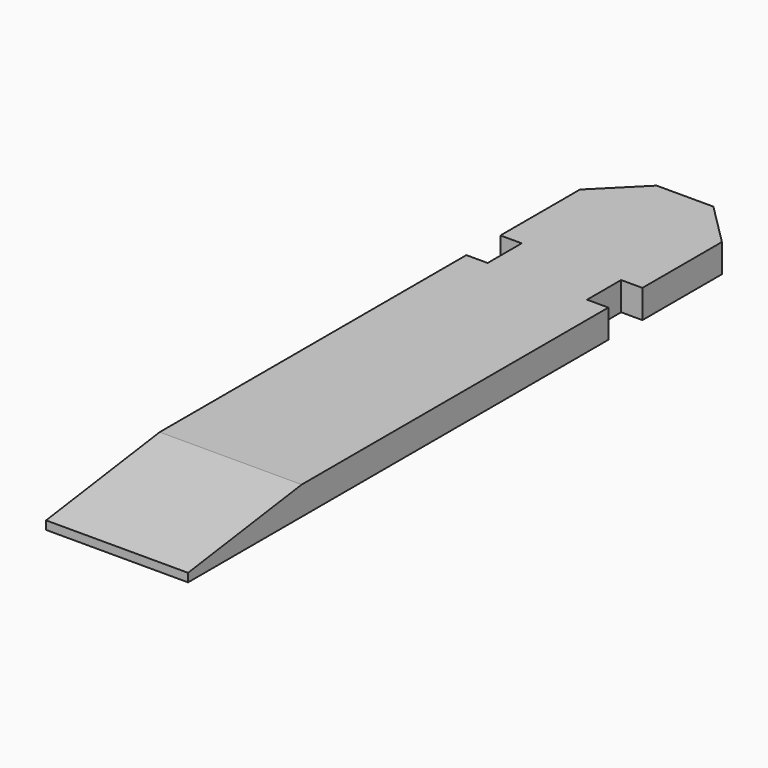
from build123d import *

# Parameters (mm, degrees)
SKETCH_W        = 10
SKETCH_H        = 50
PAD_DEPTH       = 2
SKETCH001_W     = 1.5
SKETCH001_H     = 3
POCKET_DEPTH    = 3
CHAMFER_ANGLE   = 8
CHAMFER_SIZE    = 10
CHAMFER001_SIZE = 3


with BuildPart() as part:
    # Sketch → Pad (new body)
    with BuildSketch(Plane.XY):
        with Locations((5, 25)):
            Rectangle(SKETCH_W, SKETCH_H)
    extrude(amount=PAD_DEPTH)

    # Sketch001 (on Face6 of Pad) → Pocket (cut)
    with BuildSketch(Plane.XY.offset(2)):
        with Locations((9.25, 38.5)):
            Rectangle(SKETCH001_W, SKETCH001_H)
        with Locations((0.75, 38.5)):
            Rectangle(SKETCH001_W, SKETCH001_H)
    extrude(amount=-POCKET_DEPTH, mode=Mode.SUBTRACT)

    # Chamfer
    chamfer_edges = [part.edges().sort_by_distance(p)[0] for p in [
        (5, 0, 2),
    ]]
    chamfer_side = part.faces().sort_by_distance((5, 24.752546, 2))[0]
    chamfer(chamfer_edges, length=CHAMFER_SIZE, angle=CHAMFER_ANGLE, reference=chamfer_side)

    # Chamfer001
    chamfer001_edges = [part.edges().sort_by_distance(p)[0] for p in [
        (0, 50, 1),
        (10, 50, 1),
    ]]
    chamfer(chamfer001_edges, length=CHAMFER001_SIZE)


solid = part.part
